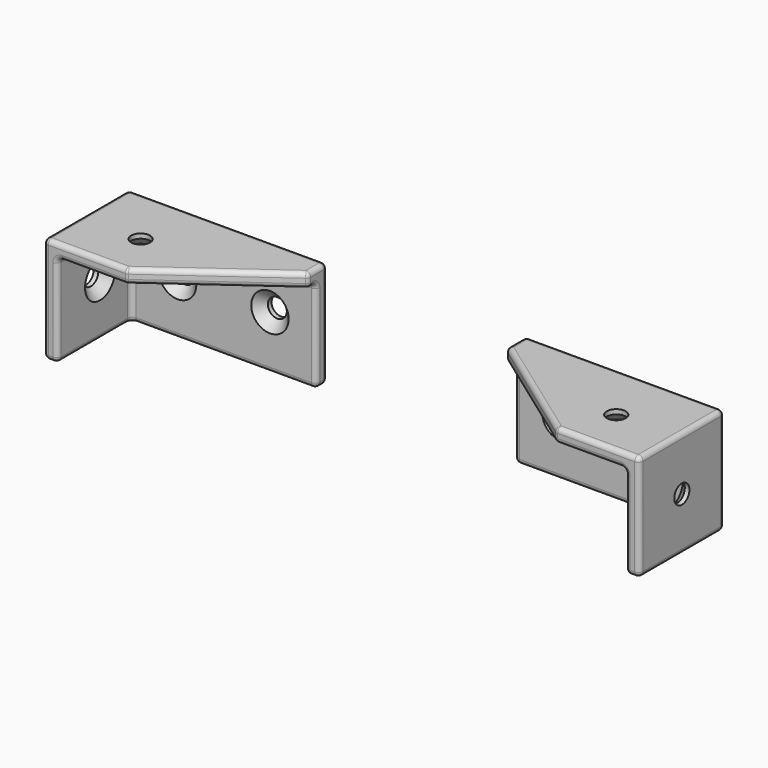
from build123d import *

# Parameters (mm, degrees)
F0_W       = 43
F0_H       = 23
F0_R       = 2.05
F1_DEPTH   = 1.5
F3_DEPTH   = 20
F5_DEPTH   = 3.001
F7_DEPTH   = 3.001
F8_R       = 1
F10_R      = 2.05
F11_DEPTH  = 43.001
F13_SIZE   = 2
F13_2_SIZE = 2


with BuildPart() as f1:
    # F0 (on Front) → F1 (new body, symmetric)
    with BuildSketch(Plane.XZ):
        Rectangle(F0_W, F0_H)
        with Locations((-11.5, 0)):
            Circle(F0_R, mode=Mode.SUBTRACT)
        with Locations((8.5, 0)):
            Circle(F0_R, mode=Mode.SUBTRACT)
    extrude(amount=F1_DEPTH, both=True)

    # F2 (on face) → F3 (join)
    with BuildSketch(Plane.XZ.offset(1.5)):
        Polygon((21.5, -11.5), (21.5, 11.5), (-21.5, 11.5), (-21.5, 8.5), (18.5, 8.5), (18.5, -11.5), align=None)
    extrude(amount=F3_DEPTH)

    # F4 (on face) → F5 (cut, through all)
    with BuildSketch(Plane(origin=(0, 0, 8.5), x_dir=(1, 0, 0), z_dir=(0, 0, -1))):
        with BuildLine():
            ThreePointArc((8.9116884214, 13.5082362022), (6.4917637978, 11.9116884214), (8.0883115786, 9.4917637978))
            Line((8.0883115786, 9.4917637978), (8.9116884214, 13.5082362022))
        make_face()
        with BuildLine():
            Line((8.9116884214, 13.5082362022), (8.0883115786, 9.4917637978))
            ThreePointArc((8.0883115786, 9.4917637978), (9.7958662616, 9.9115319858), (10.55, 11.5))
            ThreePointArc((10.55, 11.5), (10.0884680142, 12.7958662616), (8.9116884214, 13.5082362022))
        make_face()
    extrude(amount=-F5_DEPTH, mode=Mode.SUBTRACT)

    # F6 (on face) → F7 (cut, through all)
    with BuildSketch(Plane(origin=(0, 0, 8.5), x_dir=(1, 0, 0), z_dir=(0, 0, -1))):
        Polygon((-21.5, 3.5), (3.5, 21.5), (-21.5, 21.5), align=None)
    extrude(amount=-F7_DEPTH, mode=Mode.SUBTRACT)

    # F8
    f8_edges = [f1.edges().sort_by_distance(p)[0] for p in [
        (21.5, 1.5, 0),
        (21.5, -10, 11.5),
        (21.5, -21.5, 0),
        (21.5, -10, -11.5),
        (0, 1.5, -11.5),
        (0, 1.5, 11.5),
        (-21.5, -1, 11.5),
        (-9, -12.5, 11.5),
        (12.5, -21.5, 11.5),
        (-9, -12.5, 8.5),
        (3.5, -21.5, 10),
        (11, -21.5, 8.5),
        (18.5, -21.5, -1.5),
        (-1.5, -1.5, -11.5),
        (18.5, -11.5, 8.5),
        (18.5, -11.5, -11.5),
        (18.5, -1.5, -1.5),
        (20, -21.5, -11.5),
        (-21.5, 0, -11.5),
        (-21.5, 1.5, 0),
        (-21.5, -1.5, -1.5),
        (-21.5, -2.5, 8.5),
        (-21.5, -3.5, 10),
        (-1.5, -1.5, 8.5),
    ]]
    fillet(f8_edges, radius=F8_R)


with BuildPart() as f14_1:
    # F14: instance of F1
    add(f1.part.mirror(Plane(origin=(-21.5, -0.2115756963, 1.3410341816), x_dir=(0, -1, 0), z_dir=(-1, 0, 0))))

    # F10 (on face) → F11 (cut, through all)
    with BuildSketch(Plane(origin=(-64.5, 0, 0), x_dir=(0, -1, 0), z_dir=(-1, 0, 0))):
        with Locations((10, 0)):
            Circle(F10_R)
    extrude(amount=-F11_DEPTH, mode=Mode.SUBTRACT)


with BuildPart() as f12_1:
    # F12: instance of F14_1
    add(f14_1.part.mirror(Plane.YZ))

    # F13#2
    f13_2_edges = [f12_1.edges().sort_by_distance(p)[0] for p in [
        (29.45, -1.5, 0),
        (49.45, -1.5, 0),
        (51.911688, -13.508236, 8.5),
        (61.5, -7.95, 0),
    ]]
    chamfer(f13_2_edges, length=F13_2_SIZE)


with BuildPart() as f14_1_1:
    add(f14_1.part)

    # F13
    f13_edges = [f14_1_1.edges().sort_by_distance(p)[0] for p in [
        (-51.911688, -13.508236, 8.5),
        (-49.45, -1.5, 0),
        (-29.45, -1.5, 0),
        (-61.5, -7.95, 0),
    ]]
    chamfer(f13_edges, length=F13_SIZE)


solid = Compound([f12_1.part, f14_1_1.part])
